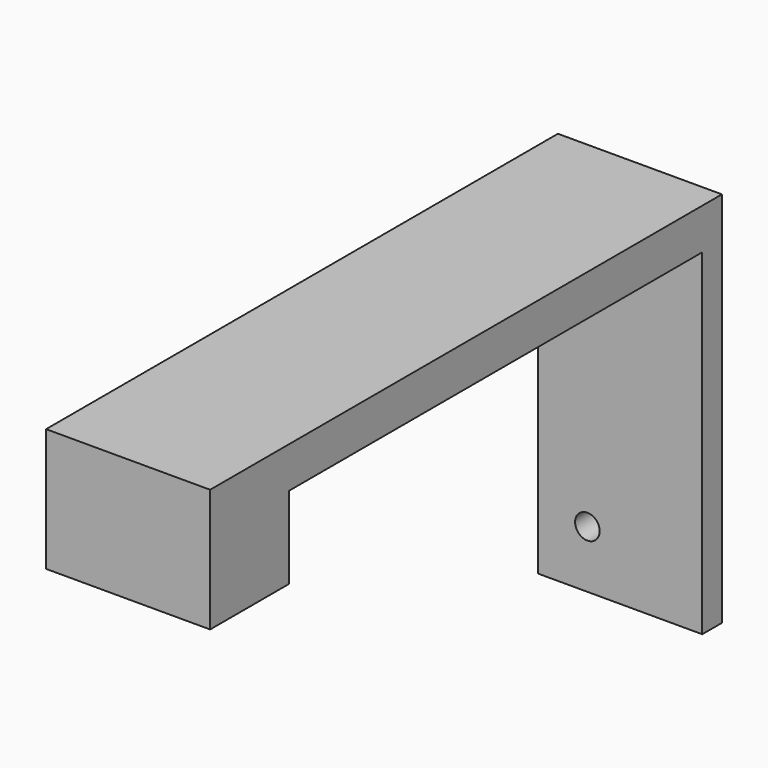
from build123d import *

# Parameters (mm, degrees)
F0_W     = 20
F0_H     = 63
F1_DEPTH = 2.5
F2_W     = 20
F2_H     = 15
F3_DEPTH = 12
F4_W     = 20
F4_H     = 46
F5_DEPTH = 3
F6_R     = 1.5
F7_DEPTH = 25


with BuildPart() as f1:
    # F0 (on Top) → F1 (new body, symmetric)
    with BuildSketch(Plane.XY):
        with Locations((-1.321708, 6.569935)):
            Rectangle(F0_W, F0_H)
    extrude(amount=F1_DEPTH, both=True)

    # F2 (on face) → F3 (join)
    with BuildSketch(Plane.XZ.offset(24.930065)):
        with Locations((-1.321708, -5)):
            Rectangle(F2_W, F2_H)
    extrude(amount=F3_DEPTH)

    # F4 (on face) → F5 (join)
    with BuildSketch(Plane(origin=(0, 38.069935, 0), x_dir=(-1, 0, 0), z_dir=(0, 1, 0))):
        with Locations((1.321708, -20.5)):
            Rectangle(F4_W, F4_H)
    extrude(amount=F5_DEPTH)

    # F6 (on face) → F7 (cut)
    with BuildSketch(Plane(origin=(0, 41.069935, 0), x_dir=(-1, 0, 0), z_dir=(0, 1, 0))):
        with Locations((5.321708, -36.5)):
            Circle(F6_R)
    extrude(amount=-F7_DEPTH, mode=Mode.SUBTRACT)


solid = f1.part
